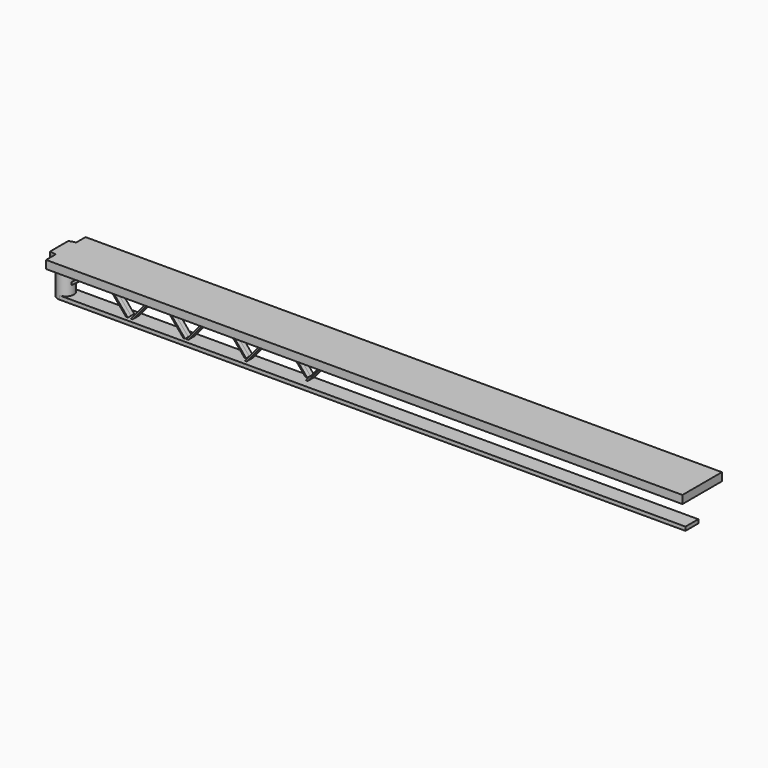
from build123d import *

# Parameters (mm, degrees)
F1_R      = 5
F2_DEPTH  = 21
F0_R      = 2.6
F3_DEPTH  = 22.5298
F5_DEPTH  = 22.86
F6_DEPTH  = 22.86
F9_DEPTH  = 25.4
F10_R     = 0.3066051224
F12_DEPTH = 1.524
F13_DEPTH = 1.524
F7_W      = 21
F7_H      = 21
F14_DEPTH = 12.954
F16_DEPTH = 1.524
F17_DEPTH = 1.524
F18_W     = 396.4212551713
F18_H     = 7.4837879358
F19_DEPTH = 25.4
F20_W     = 9.9822748452
F20_H     = 2.3479314987
F21_DEPTH = 390
F23_DEPTH = 2.03
F25_DEPTH = 2.5
F26_DEPTH = 2.5
F28_DEPTH = 2.5
F29_DEPTH = 2.5


with BuildPart() as f2:
    # F1 (on Top) → F2 (new body)
    with BuildSketch(Plane.XY):
        Circle(F1_R)
    extrude(amount=F2_DEPTH)

    # F0 (on Top) → F3 (cut)
    with BuildSketch(Plane.XY):
        Circle(F0_R)
    extrude(amount=F3_DEPTH, mode=Mode.SUBTRACT)

    # F10
    f10_edges = [f2.edges().sort_by_distance(p)[0] for p in [
        (-5, 0, 21),
    ]]
    fillet(f10_edges, radius=F10_R)

    # F7 (on face) → F14 (cut)
    with BuildSketch(Plane.XY.offset(26.0181073099)):
        with Locations((84.1592252254, 0)):
            Rectangle(F7_W, F7_H)
    extrude(amount=F14_DEPTH, mode=Mode.SUBTRACT)


with BuildPart() as f5:
    # F4 (on Front) → F5 (new body)
    with BuildSketch(Plane.XZ):
        with BuildLine():
            Line((-4.8487448287, 24.7481073099), (-4.8487448287, 21.0003294051))
            Line((-4.8487448287, 21.0003294051), (3.0000130646, 21.0003294051))
            Line((3.0000130646, 21.0003294051), (396.4212551713, 21.0003294051))
            Line((396.4212551713, 21.0003294051), (396.4212551713, 26.0181073099))
            Line((396.4212551713, 26.0181073099), (-3.5787448287, 26.0181073099))
            ThreePointArc((-3.5787448287, 26.0181073099), (-4.4767704408, 25.646132922), (-4.8487448287, 24.7481073099))
        make_face()
    extrude(amount=F5_DEPTH)

    # F6 (add): a face of the model
    f6_faces = [f5.faces().sort_by_distance(p)[0] for p in [
        (195.8207028235, 0, 23.508835763),
    ]]
    extrude(f6_faces, amount=F6_DEPTH)

    # F8 (on face) → F9 (cut)
    with BuildSketch(Plane(origin=(0, 0, 21.0003294051), x_dir=(1, 0, 0), z_dir=(0, 0, -1))):
        with BuildLine():
            Line((-4.8487448287, 22.86), (-4.8487448287, 6.2273615769))
            ThreePointArc((-4.8487448287, 6.2273615769), (-2.5633357035, 7.4645608508), (0, 7.8924241285))
            Line((0, 7.8924241285), (0, 22.86))
            Line((0, 22.86), (-4.8487448287, 22.86))
        make_face()
        with BuildLine():
            ThreePointArc((-4.8487448287, 6.2273615769), (-7.8924241285, 0), (-4.8487448287, -6.2273615769))
            Line((-4.8487448287, -6.2273615769), (-4.8487448287, 6.2273615769))
        make_face()
        with BuildLine():
            Line((-4.8487448287, -6.2273615769), (-4.8487448287, -22.86))
            Line((-4.8487448287, -22.86), (0, -22.86))
            Line((0, -22.86), (0, -7.8924241285))
            ThreePointArc((0, -7.8924241285), (-2.5633357035, -7.4645608508), (-4.8487448287, -6.2273615769))
        make_face()
    extrude(amount=-F9_DEPTH, mode=Mode.SUBTRACT)

    # F18 (on face) → F19 (cut)
    with BuildSketch(Plane.XY.offset(26.0181073099)):
        with Locations((198.2106275856, 19.1181060321)):
            Rectangle(F18_W, F18_H)
        with Locations((198.2106275856, -19.1181060321)):
            Rectangle(F18_W, F18_H)
    extrude(amount=-F19_DEPTH, mode=Mode.SUBTRACT)


with BuildPart() as f12:
    # F11 (on Front) → F12 (new body)
    with BuildSketch(Plane.XZ):
        Polygon((2.4926902261, 12.7373086289), (10.6865987182, 21.0217572749), (8.9478176087, 21.0217572749), (2.5859508877, 14.5895938947), align=None)
    extrude(amount=F12_DEPTH)


with BuildPart() as f13:
    # F13 (new): a face of the model
    f13_faces = [f12.part.faces().sort_by_distance(p)[0] for p in [
        (6.1955236161, 0, 17.3231763326),
    ]]
    extrude(f13_faces, amount=F13_DEPTH)


with BuildPart() as f16:
    # F15 (on Front) → F16 (new body)
    with BuildSketch(Plane.XZ):
        Polygon((2.4104248732, 6.3500003889), (22.8929929435, 21.2797671556), (20.4450512115, 21.2797671556), (2.5036855349, 8.2022856548), align=None)
    extrude(amount=F16_DEPTH)


with BuildPart() as f17:
    # F15 (on Front) → F17 (new body)
    with BuildSketch(Plane.XZ):
        Polygon((2.4104248732, 6.3500003889), (22.8929929435, 21.2797671556), (20.4450512115, 21.2797671556), (2.5036855349, 8.2022856548), align=None)
    extrude(amount=-F17_DEPTH)


with BuildPart() as f21:
    # F20 (on Right) → F21 (new body)
    with BuildSketch(Plane.YZ):
        with Locations((-0.0040763989, 1.1739657493)):
            Rectangle(F20_W, F20_H)
    extrude(amount=F21_DEPTH)


with BuildPart() as f23_tool:
    # F22 (on face) → F23 (new body)
    with BuildSketch(Plane(origin=(0, 0, 0), x_dir=(1, 0, 0), z_dir=(0, 0, -1))):
        with BuildLine():
            Line((0, 2.6058764197), (0, -2.6213775855))
            ThreePointArc((0, -2.6213775855), (2.5991072489, -0.0077505829), (0, 2.6058764197))
        make_face()
    extrude(amount=-F23_DEPTH)


with BuildPart() as f2_1:
    add(f2.part)

    # F23: cut by f23_tool
    add(f23_tool.part, mode=Mode.SUBTRACT)


with BuildPart() as f21_1:
    add(f21.part)

    # F23: cut by f23_tool
    add(f23_tool.part, mode=Mode.SUBTRACT)


with BuildPart() as f25:
    # F24 (on Front) → F25 (new body)
    with BuildSketch(Plane.XZ):
        Polygon((24.5731081814, 21.4473437518), (23.4979521483, 21.4473437518), (41.504342109, 0), (42.579498142, 0), align=None)
    extrude(amount=F25_DEPTH)


with BuildPart() as f26:
    # F24 (on Front) → F26 (new body)
    with BuildSketch(Plane.XZ):
        Polygon((24.5731081814, 21.4473437518), (23.4979521483, 21.4473437518), (41.504342109, 0), (42.579498142, 0), align=None)
    extrude(amount=-F26_DEPTH)


with BuildPart() as f28:
    # F27 (on Front) → F28 (new body)
    with BuildSketch(Plane.XZ):
        Polygon((40.57206586, 0), (41.6472218931, 0), (59.6536118537, 21.4473437518), (58.5784558207, 21.4473437518), align=None)
    extrude(amount=F28_DEPTH)


with BuildPart() as f29:
    # F27 (on Front) → F29 (new body)
    with BuildSketch(Plane.XZ):
        Polygon((40.57206586, 0), (41.6472218931, 0), (59.6536118537, 21.4473437518), (58.5784558207, 21.4473437518), align=None)
    extrude(amount=-F29_DEPTH)


with BuildPart() as f30_1:
    # F30: copy of F25
    add(f25.part.moved(Location((35.7, 0, 0))))


with BuildPart() as f31_1:
    # F31: copy of F30_1
    add(f30_1.part.moved(Location((0, 2.5, 0))))


with BuildPart() as f32_1:
    # F32: copy of F29
    add(f29.part.moved(Location((34.6, 0, 0))))


with BuildPart() as f33_1:
    # F33: copy of F32_1
    add(f32_1.part.moved(Location((0, -2.5, 0))))


with BuildPart() as f34_1:
    # F34: copy of F31_1
    add(f31_1.part.moved(Location((36, 0, 0))))


with BuildPart() as f35_1:
    # F35: copy of F34_1
    add(f34_1.part.moved(Location((0, 2.5, 0))))


with BuildPart() as f36_1:
    # F36: copy of F33_1
    add(f33_1.part.moved(Location((36.4, 0, 0))))


with BuildPart() as f37_1:
    # F37: copy of F36_1
    add(f36_1.part.moved(Location((0, 2.5, 0))))


with BuildPart() as f38_1:
    # F38: copy of F35_1
    add(f35_1.part.moved(Location((36.1, 0, 0))))


with BuildPart() as f39_1:
    # F39: copy of F38_1
    add(f38_1.part.moved(Location((0, 2.5, 0))))


with BuildPart() as f40_1:
    # F40: copy of F37_1
    add(f37_1.part.moved(Location((36.1, 0, 0))))


with BuildPart() as f41_1:
    # F41: copy of F40_1
    add(f40_1.part.moved(Location((0, 2.5, 0))))


solid = Compound([f5.part, f12.part, f13.part, f16.part, f17.part, f2_1.part, f21_1.part, f25.part, f26.part, f28.part, f29.part, f30_1.part, f31_1.part, f32_1.part, f33_1.part, f34_1.part, f35_1.part, f36_1.part, f37_1.part, f38_1.part, f39_1.part, f40_1.part, f41_1.part])
